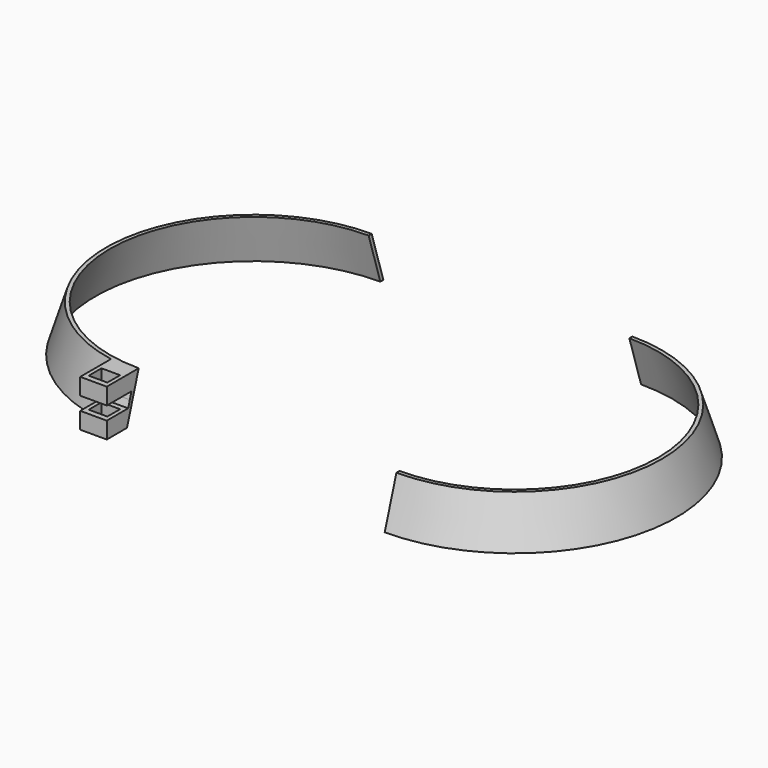
from build123d import *

# Parameters (mm, degrees)
F1_ANGLE_BACK  = 90
F1_ANGLE       = 180
F2_ANGLE_START = 90
F2_ANGLE       = 180
F4_DEPTH       = 5.08
F5_DEPTH       = 5.08
F6_W           = 3.556
F6_H           = 3.048
F7_DEPTH       = 25.4


with BuildPart() as f1:
    # F0 (on Front) → F1 (revolve)
    with BuildSketch(Plane.XZ, mode=Mode.PRIVATE) as f1_sk:
        Polygon((-62.6815780775, 47.7310680375), (-63.4057742764, 47.7310680375), (-66.1997742764, 38.8410680375), (-65.4755780775, 38.8410680375), align=None)
    revolve(f1_sk.sketch.rotate(Axis((-35.2495780775, 0, 43.2860680375), (0, 0, 1)), -F1_ANGLE_BACK), axis=Axis((-35.2495780775, 0, 43.2860680375), (0, 0, 1)), revolution_arc=F1_ANGLE)

    # F3 (on face) → F4 (join)
    with BuildSketch(Plane.YZ.offset(-35.2495780775)):
        Polygon((-30.226, 38.8410680375), (-27.432, 47.7310680375), (-28.1561961989, 47.7310680375), (-29.1540533418, 44.5560680375), (-29.5531961989, 43.2860680375), (-29.9523390561, 42.0160680375), (-30.9501961989, 38.8410680375), align=None)
        Polygon((-29.1540533418, 44.5560680375), (-28.1561961989, 47.7310680375), (-35.052, 47.7310680375), (-35.052, 44.5560680375), align=None)
        Polygon((-29.5531961989, 43.2860680375), (-29.1540533418, 44.5560680375), (-35.052, 44.5560680375), (-35.052, 43.2860680375), align=None)
        Polygon((-29.9523390561, 42.0160680375), (-29.5531961989, 43.2860680375), (-35.052, 43.2860680375), (-35.052, 42.0160680375), align=None)
        Polygon((-35.052, 38.8410680375), (-30.9501961989, 38.8410680375), (-29.9523390561, 42.0160680375), (-35.052, 42.0160680375), align=None)
    extrude(amount=-F4_DEPTH)

    # F3 (on face) → F5 (cut)
    with BuildSketch(Plane.YZ.offset(-35.2495780775)):
        Polygon((-29.5531961989, 43.2860680375), (-29.1540533418, 44.5560680375), (-35.052, 44.5560680375), (-35.052, 43.2860680375), align=None)
        Polygon((-29.9523390561, 42.0160680375), (-29.5531961989, 43.2860680375), (-35.052, 43.2860680375), (-35.052, 42.0160680375), align=None)
    extrude(amount=-F5_DEPTH, mode=Mode.SUBTRACT)

    # F6 (on face) → F7 (cut)
    with BuildSketch(Plane.XY.offset(47.7310680375)):
        with Locations((-37.7895780775, -32.4442176709)):
            Rectangle(F6_W, F6_H)
    extrude(amount=-F7_DEPTH, mode=Mode.SUBTRACT)


with BuildPart() as f2:
    # F0 (on Front) → F2 (revolve)
    with BuildSketch(Plane.XZ, mode=Mode.PRIVATE) as f2_sk:
        Polygon((-12.9008494282, 46.6531522715), (-13.6250456271, 46.6531522715), (-16.4190456271, 37.7631522715), (-15.6948494282, 37.7631522715), align=None)
    revolve(f2_sk.sketch.rotate(Axis((14.5311505718, 0, 42.2081522715), (0, 0, 1)), F2_ANGLE_START), axis=Axis((14.5311505718, 0, 42.2081522715), (0, 0, 1)), revolution_arc=F2_ANGLE)


solid = Compound([f1.part, f2.part])
